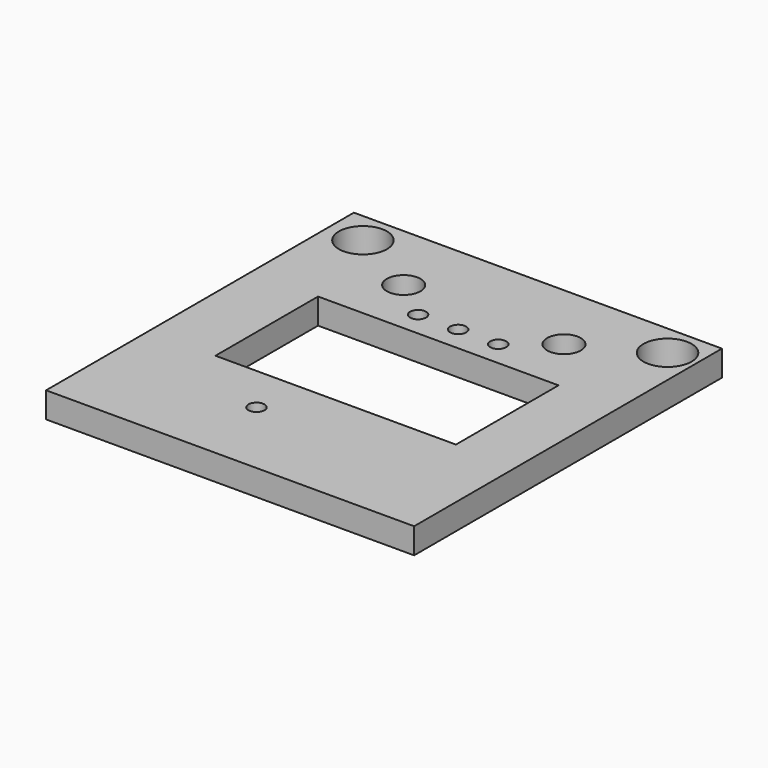
from build123d import *

# Parameters (mm, degrees)
F0_W     = 22.956962
F0_H     = 24
F0_R     = 0.5
F0_R_2   = 1.05
F1_DEPTH = 1.6
F2_W     = 15
F2_H     = 8
F3_DEPTH = 25
F4_R     = 1.5
F5_DEPTH = 25


with BuildPart() as f1:
    # F0 (on Top) → F1 (new body)
    with BuildSketch(Plane.XY):
        with Locations((-0.186301, 0)):
            Rectangle(F0_W, F0_H)
        with Locations((-2.54, -7)):
            Circle(F0_R, mode=Mode.SUBTRACT)
        with Locations((-2.5, 5.55)):
            Circle(F0_R, mode=Mode.SUBTRACT)
        with Locations((-5, 7.55)):
            Circle(F0_R_2, mode=Mode.SUBTRACT)
        with Locations((0, 5.55)):
            Circle(F0_R, mode=Mode.SUBTRACT)
        with Locations((2.5, 5.55)):
            Circle(F0_R, mode=Mode.SUBTRACT)
        with Locations((5, 7.55)):
            Circle(F0_R_2, mode=Mode.SUBTRACT)
    extrude(amount=-F1_DEPTH)

    # F2 (on face) → F3 (cut)
    with BuildSketch(Plane.XY):
        Rectangle(F2_W, F2_H)
    extrude(amount=-F3_DEPTH, mode=Mode.SUBTRACT)

    # F4 (on face) → F5 (cut)
    with BuildSketch(Plane.XY):
        with Locations((-9.5, 10)):
            Circle(F4_R)
        with Locations((9.5, 10)):
            Circle(F4_R)
    extrude(amount=-F5_DEPTH, mode=Mode.SUBTRACT)


solid = f1.part
